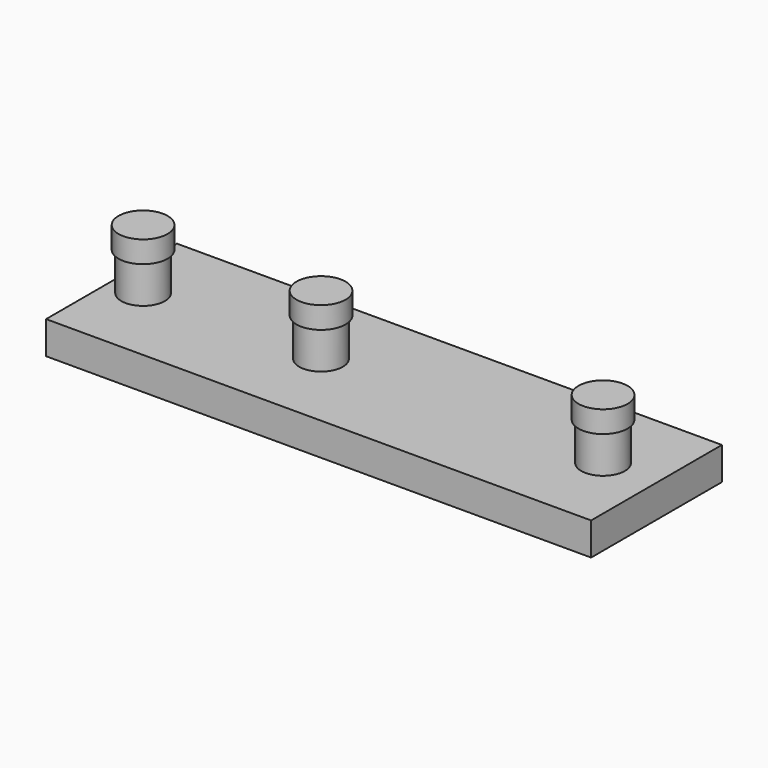
from build123d import *

# Parameters (mm, degrees)
F0_W     = 50
F0_H     = 15
F0_R     = 2
F1_DEPTH = 3
F2_DEPTH = 6.5
F3_R     = 2.25
F3_R_2   = 2
F4_DEPTH = 2


with BuildPart() as f1:
    # F0 (on Top) → F1 (new body)
    with BuildSketch(Plane.XY):
        with Locations((22.101158835, 0)):
            Rectangle(F0_W, F0_H)
        Circle(F0_R, mode=Mode.SUBTRACT)
        with Locations((16.3239448783, 0)):
            Circle(F0_R, mode=Mode.SUBTRACT)
        with Locations((42.1971863421, 0)):
            Circle(F0_R, mode=Mode.SUBTRACT)
    extrude(amount=F1_DEPTH)

    # F0 (on Top) → F2 (join)
    with BuildSketch(Plane.XY):
        Circle(F0_R)
        with Locations((16.3239448783, 0)):
            Circle(F0_R)
        with Locations((42.1971863421, 0)):
            Circle(F0_R)
    extrude(amount=F2_DEPTH)

    # F3 (on face) → F4 (join)
    with BuildSketch(Plane.XY.offset(6.5)):
        Circle(F3_R)
        Circle(F3_R_2, mode=Mode.SUBTRACT)
        with Locations((16.3239448783, 0)):
            Circle(F3_R)
        with Locations((16.3239448783, 0)):
            Circle(F3_R_2, mode=Mode.SUBTRACT)
        with Locations((42.1971863421, 0)):
            Circle(F3_R)
        with Locations((42.1971863421, 0)):
            Circle(F3_R_2, mode=Mode.SUBTRACT)
        Circle(F3_R_2)
        with Locations((16.3239448783, 0)):
            Circle(F3_R_2)
        with Locations((42.1971863421, 0)):
            Circle(F3_R_2)
    extrude(amount=F4_DEPTH)


solid = f1.part
